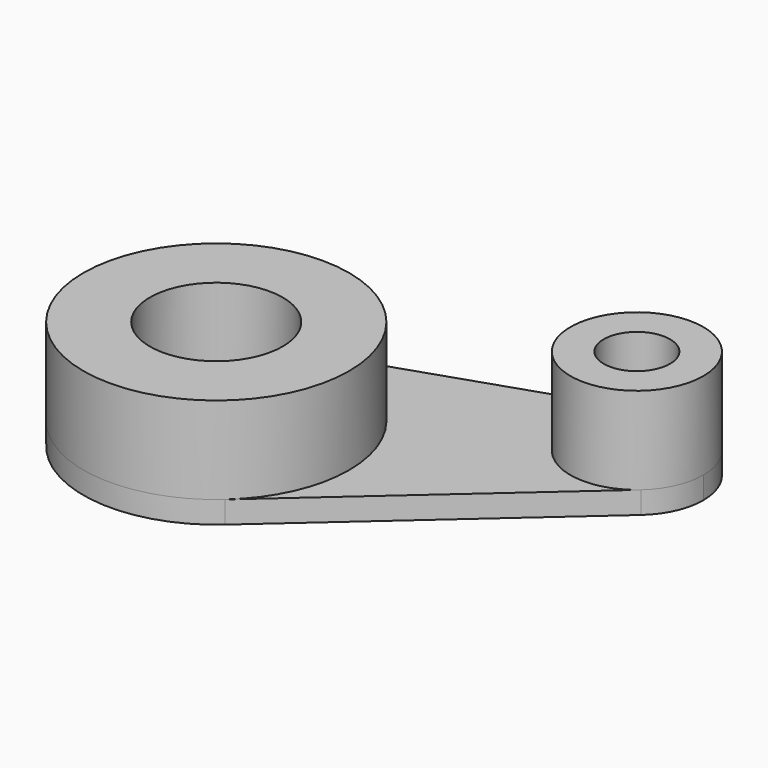
from build123d import *

# Parameters (mm, degrees)
F0_R     = 76.2
F0_R_2   = 38.1
F1_DEPTH = 25.4
F2_R     = 152.4
F2_R_2   = 76.2
F3_DEPTH = 100
F4_R     = 76.2
F4_R_2   = 38.1
F5_DEPTH = 100


with BuildPart() as f1:
    # F0 (on Top) → F1 (new body)
    with BuildSketch(Plane.XY):
        with BuildLine():
            ThreePointArc((101.056902, -114.075688), (138.972716, -62.548734), (152.4, 0))
            ThreePointArc((152.4, 0), (89.079536, 123.655151), (-48.263993, 144.555688))
            ThreePointArc((-48.263993, 144.555688), (-131.982272, -76.2), (101.056902, -114.075688))
        make_face()
        Circle(F0_R, mode=Mode.SUBTRACT)
        with BuildLine():
            ThreePointArc((-48.263993, 144.555688), (89.079536, 123.655151), (152.4, 0))
            ThreePointArc((152.4, 0), (138.972716, -62.548734), (101.056902, -114.075688))
            Line((101.056902, -114.075688), (380.48413, 133.462156))
            ThreePointArc((380.48413, 133.462156), (263.964543, 152.4), (305.823682, 262.777844))
            Line((305.823682, 262.777844), (-48.263993, 144.555688))
        make_face()
        with BuildLine():
            ThreePointArc((406.155679, 190.5), (374.495447, 252.327575), (305.823682, 262.777844))
            ThreePointArc((305.823682, 262.777844), (263.964543, 152.4), (380.48413, 133.462156))
            ThreePointArc((380.48413, 133.462156), (399.442037, 159.225633), (406.155679, 190.5))
        make_face()
        with Locations((329.955679, 190.5)):
            Circle(F0_R_2, mode=Mode.SUBTRACT)
    extrude(amount=F1_DEPTH)

    # F2 (on face) → F3 (join)
    with BuildSketch(Plane.XY.offset(25.4)):
        Circle(F2_R)
        Circle(F2_R_2, mode=Mode.SUBTRACT)
    extrude(amount=F3_DEPTH)

    # F4 (on face) → F5 (join, through all)
    with BuildSketch(Plane.XY.offset(25.4)):
        with Locations((329.955679, 190.5)):
            Circle(F4_R)
        with Locations((329.955679, 190.5)):
            Circle(F4_R_2, mode=Mode.SUBTRACT)
    extrude(amount=F5_DEPTH)


solid = f1.part
